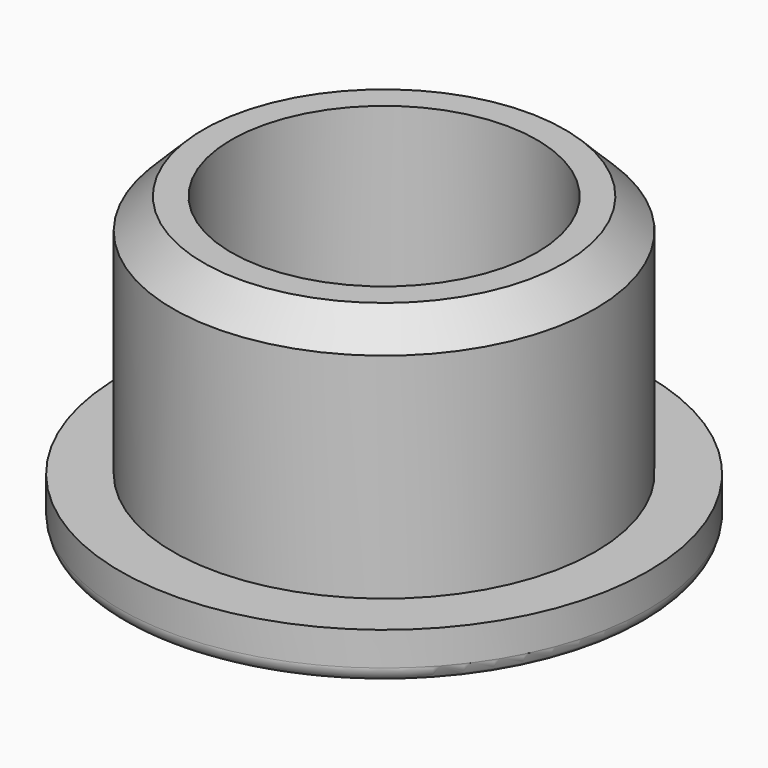
from build123d import *

# Parameters (mm, degrees)
F0_R     = 6.858
F1_DEPTH = 1.27
F2_R     = 5.4864
F3_DEPTH = 6.35
F4_R     = 3.96875
F5_DEPTH = 25.4
F6_SIZE  = 0.79375
F7_R     = 0.396875


with BuildPart() as f1:
    # F0 (on Top) → F1 (new body)
    with BuildSketch(Plane.XY):
        Circle(F0_R)
    extrude(amount=F1_DEPTH)

    # F2 (on face) → F3 (join)
    with BuildSketch(Plane.XY.offset(1.27)):
        Circle(F2_R)
    extrude(amount=F3_DEPTH)

    # F4 (on Top) → F5 (cut)
    with BuildSketch(Plane.XY):
        Circle(F4_R)
    extrude(amount=F5_DEPTH, mode=Mode.SUBTRACT)

    # F6
    f6_edges = [f1.edges().sort_by_distance(p)[0] for p in [
        (-5.4864, 0, 7.62),
        (-3.96875, 0, 0),
    ]]
    chamfer(f6_edges, length=F6_SIZE)

    # F7
    f7_edges = [f1.edges().sort_by_distance(p)[0] for p in [
        (-6.858, 0, 0),
    ]]
    fillet(f7_edges, radius=F7_R)


solid = f1.part
